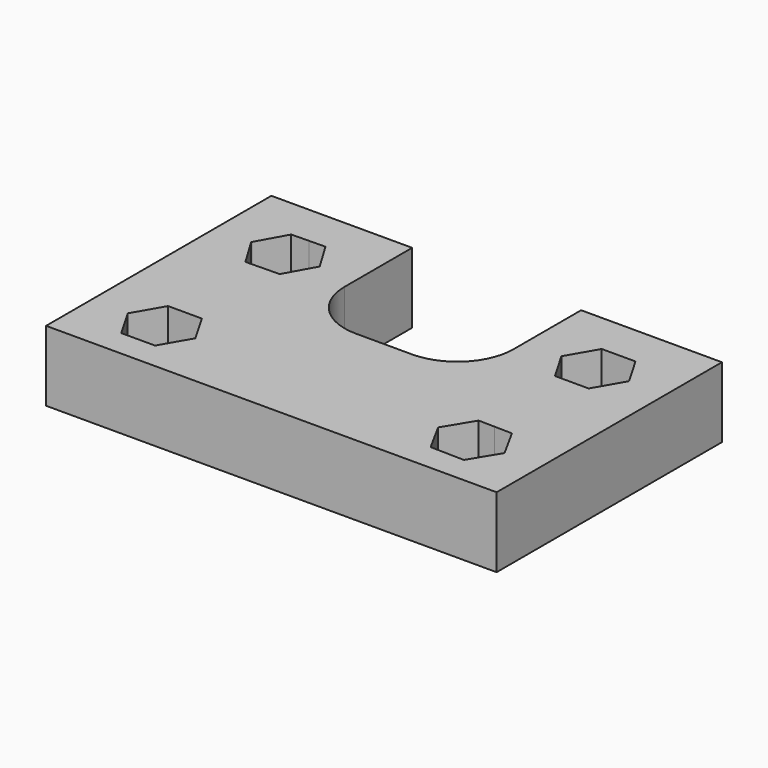
from build123d import *

# Parameters (mm, degrees)
F1_DEPTH = 25


with BuildPart() as f1:
    # F0 (on Top) → F1 (new body)
    with BuildSketch(Plane.XY):
        with BuildLine():
            Line((-67.9301097989, 54.1801027954), (-67.9301097989, -45.8198972046))
            Line((-67.9301097989, -45.8198972046), (-42.9301097989, -45.8198972046))
            Line((-42.9301097989, -45.8198972046), (67.0698902011, -45.8198972046))
            Line((67.0698902011, -45.8198972046), (92.0698902011, -45.8198972046))
            Line((92.0698902011, -45.8198972046), (92.0698902011, 54.1801027954))
            Line((92.0698902011, 54.1801027954), (42.0698902011, 54.1801027954))
            Line((42.0698902011, 54.1801027954), (42.0698902011, 24.1801027954))
            ThreePointArc((42.0698902011, 24.1801027954), (36.2120258248, 10.0379671716), (22.0698902011, 4.1801027954))
            Line((22.0698902011, 4.1801027954), (2.0698902011, 4.1801027954))
            ThreePointArc((2.0698902011, 4.1801027954), (-12.0722454226, 10.0379671716), (-17.9301097989, 24.1801027954))
            Line((-17.9301097989, 24.1801027954), (-17.9301097989, 54.1801027954))
            Line((-17.9301097989, 54.1801027954), (-67.9301097989, 54.1801027954))
        make_face()
        Polygon((-30.9301097989, -25.8198972046), (-36.9301097989, -36.2122020501), (-48.9301097989, -36.2122020501), (-54.9301097989, -25.8198972046), (-48.9301097989, -15.4275923592), (-36.9301097989, -15.4275923592), align=None, mode=Mode.SUBTRACT)
        Polygon((67.0698902011, -36.216634546), (60.8552652972, -36.088288304), (55.2062296075, -25.8198972046), (55.0698902011, -25.5720697126), (61.284515105, -15.3036786132), (67.0698902011, -15.4231598633), (73.284515105, -15.5515061052), (78.9335507947, -25.8198972046), (79.0698902011, -26.0677246967), (72.8552652972, -36.3361157961), align=None, mode=Mode.SUBTRACT)
        Polygon((-42.9301097989, 18.7845291515), (-48.745799326, 18.6813862488), (-54.9301097989, 28.9672793931), (-54.8122177855, 29.1801027954), (-49.1144202718, 39.4659959396), (-42.9301097989, 39.5756764393), (-37.1144202718, 39.6788193419), (-30.9301097989, 29.3929261976), (-31.0480018123, 29.1801027954), (-36.745799326, 18.8942096511), align=None, mode=Mode.SUBTRACT)
        Polygon((73.0753503289, 18.7909503562), (61.0753503289, 18.7846455437), (55.0698902011, 29.1737979829), (55.0735258709, 29.1801027954), (61.0644300733, 39.5692552345), (73.0644300733, 39.575560047), (79.0698902011, 29.1864076078), (79.0662545313, 29.1801027954), align=None, mode=Mode.SUBTRACT)
    extrude(amount=F1_DEPTH)


solid = f1.part
